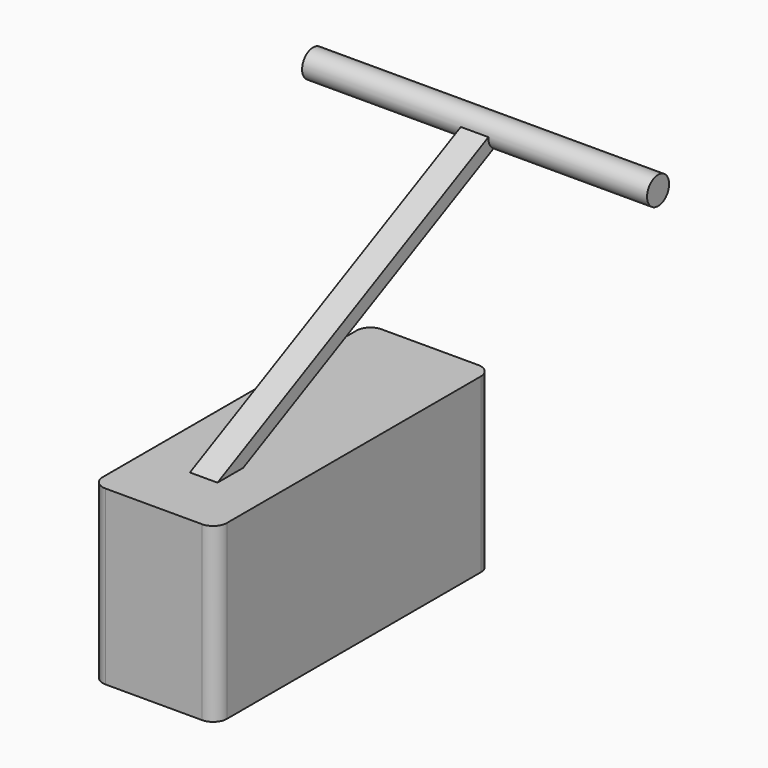
from build123d import *

# Parameters (mm, degrees)
F1_DEPTH = 25
F3_START = -7
F3_DEPTH = 4
F4_W     = 4
F4_H     = 1


with BuildPart() as f1:
    # F0 (on Top) → F1 (new body)
    with BuildSketch(Plane.XY):
        with BuildLine():
            Line((-7, -25), (7, -25))
            ThreePointArc((7, -25), (8.4142135624, -24.4142135624), (9, -23))
            Line((9, -23), (9, 23))
            ThreePointArc((9, 23), (8.4142135624, 24.4142135624), (7, 25))
            Line((7, 25), (-7, 25))
            ThreePointArc((-7, 25), (-8.4142135624, 24.4142135624), (-9, 23))
            Line((-9, 23), (-9, -23))
            ThreePointArc((-9, -23), (-8.4142135624, -24.4142135624), (-7, -25))
        make_face()
    extrude(amount=F1_DEPTH)

    # F2 (on face) → F3 (join)
    with BuildSketch(Plane.YZ.offset(9).offset(F3_START)):
        Polygon((34.6765182912, 49.9050952494), (-15.9586127847, 25), (-11.2994632265, 25), (35.5840993399, 48.0598710132), align=None)
    extrude(amount=-F3_DEPTH)

    # F4 (on face) → F5 (revolve)
    with BuildSketch(Plane(origin=(0, 47.6862617378, 23.4546818668), x_dir=(-1, 0, 0), z_dir=(0, 0.8973319166, 0.4413563543))):
        with Locations((0, 28.976733073)):
            Rectangle(F4_W, F4_H)
        Polygon((2, 28.476733073), (25, 28.476733073), (25, 30.476733073), (-25, 30.476733073), (-25, 28.476733073), (-2, 28.476733073), (-2, 29.476733073), (2, 29.476733073), align=None)
    revolve(axis=Axis((0, 35.1178746456, 49.0077633328), (1, 0, 0)))


solid = f1.part
